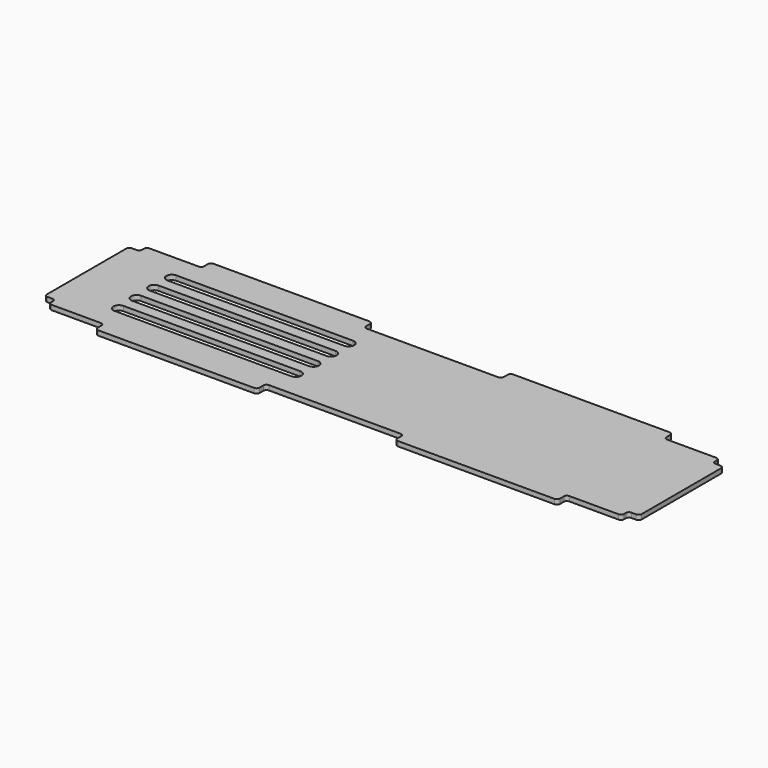
from build123d import *

# Parameters (mm, degrees)
PAD_DEPTH = 1.8542


with BuildPart() as part:
    # Sketch (on Face54 of Binder001) → Pad (new body)
    with BuildSketch(Plane.XY.offset(-14.1418)):
        with BuildLine():
            Line((326.2352, 174.592), (328.0894, 174.592))
            ThreePointArc((329.2894, 173.392), (328.937928, 174.240528), (328.0894, 174.592))
            Line((329.2894, 173.392), (329.2894, 134.7706))
            ThreePointArc((328.0894, 133.5706), (328.937928, 133.922072), (329.2894, 134.7706))
            Line((328.0894, 133.5706), (326.2352, 133.5706))
            ThreePointArc((326.2352, 133.5706), (325.386672, 133.219128), (325.0352, 132.3706))
            Line((325.0352, 131.4813), (325.0352, 132.3706))
            ThreePointArc((323.8352, 130.2813), (324.683728, 130.632772), (325.0352, 131.4813))
            Line((304.7198, 130.2813), (323.8352, 130.2813))
            ThreePointArc((304.7198, 130.2813), (303.871272, 129.929828), (303.5198, 129.0813))
            Line((303.5198, 129.0813), (303.5198, 127.2271))
            ThreePointArc((302.3198, 126.0271), (303.168328, 126.378572), (303.5198, 127.2271))
            Line((241.3778, 126.0271), (302.3198, 126.0271))
            ThreePointArc((240.1778, 127.2271), (240.529272, 126.378572), (241.3778, 126.0271))
            Line((240.1778, 129.0813), (240.1778, 127.2271))
            ThreePointArc((240.1778, 129.0813), (239.826328, 129.929828), (238.9778, 130.2813))
            Line((187.7682, 130.2813), (238.9778, 130.2813))
            ThreePointArc((187.7682, 130.2813), (186.919672, 129.929828), (186.5682, 129.0813))
            Line((186.5682, 129.0813), (186.5682, 127.2271))
            ThreePointArc((185.3682, 126.0271), (186.216728, 126.378572), (186.5682, 127.2271))
            Line((124.6802, 126.0271), (185.3682, 126.0271))
            ThreePointArc((123.4802, 127.2271), (123.831672, 126.378572), (124.6802, 126.0271))
            Line((123.4802, 129.0813), (123.4802, 127.2271))
            ThreePointArc((123.4802, 129.0813), (123.128728, 129.929828), (122.2802, 130.2813))
            Line((122.2802, 130.2813), (103.1648, 130.2813))
            ThreePointArc((101.9648, 131.4813), (102.316272, 130.632772), (103.1648, 130.2813))
            Line((101.9648, 131.4813), (101.9648, 132.3706))
            ThreePointArc((101.9648, 132.3706), (101.613328, 133.219128), (100.7648, 133.5706))
            Line((100.7648, 133.5706), (98.9106, 133.5706))
            ThreePointArc((97.7106, 134.7706), (98.062072, 133.922072), (98.9106, 133.5706))
            Line((97.7106, 134.7706), (97.7106, 173.392))
            ThreePointArc((98.9106, 174.592), (98.062072, 174.240528), (97.7106, 173.392))
            Line((98.9106, 174.592), (100.7648, 174.592))
            ThreePointArc((100.7648, 174.592), (101.613328, 174.943472), (101.9648, 175.792))
            Line((101.9648, 175.792), (101.9648, 176.6813))
            ThreePointArc((103.1648, 177.8813), (102.316272, 177.529828), (101.9648, 176.6813))
            Line((103.1648, 177.8813), (122.2802, 177.8813))
            ThreePointArc((122.2802, 177.8813), (123.128728, 178.232772), (123.4802, 179.0813))
            Line((123.4802, 179.0813), (123.4802, 180.9355))
            ThreePointArc((124.6802, 182.1355), (123.831672, 181.784028), (123.4802, 180.9355))
            Line((124.6802, 182.1355), (185.3682, 182.1355))
            ThreePointArc((186.5682, 180.9355), (186.216728, 181.784028), (185.3682, 182.1355))
            Line((186.5682, 180.9355), (186.5682, 179.0813))
            ThreePointArc((186.5682, 179.0813), (186.919672, 178.232772), (187.7682, 177.8813))
            Line((238.9778, 177.8813), (187.7682, 177.8813))
            ThreePointArc((238.9778, 177.8813), (239.826328, 178.232772), (240.1778, 179.0813))
            Line((240.1778, 179.0813), (240.1778, 180.9355))
            ThreePointArc((241.3778, 182.1355), (240.529272, 181.784028), (240.1778, 180.9355))
            Line((241.3778, 182.1355), (302.3198, 182.1355))
            ThreePointArc((303.5198, 180.9355), (303.168328, 181.784028), (302.3198, 182.1355))
            Line((303.5198, 180.9355), (303.5198, 179.0813))
            ThreePointArc((303.5198, 179.0813), (303.871272, 178.232772), (304.7198, 177.8813))
            Line((304.7198, 177.8813), (323.8352, 177.8813))
            ThreePointArc((325.0352, 176.6813), (324.683728, 177.529828), (323.8352, 177.8813))
            Line((325.0352, 176.6813), (325.0352, 175.792))
            ThreePointArc((325.0352, 175.792), (325.386672, 174.943472), (326.2352, 174.592))
        make_face()
        with BuildLine():
            ThreePointArc((120.6, 143.367014), (118.457143, 141.224157), (120.6, 139.0813))
            Line((120.6, 139.0813), (189.4484, 139.0813))
            ThreePointArc((189.4484, 139.0813), (191.591257, 141.224157), (189.4484, 143.367014))
            Line((120.6, 143.367014), (189.4484, 143.367014))
        make_face(mode=Mode.SUBTRACT)
        with BuildLine():
            ThreePointArc((120.6, 151.938443), (118.457143, 149.795586), (120.6, 147.652729))
            Line((120.6, 147.652729), (189.4484, 147.652729))
            ThreePointArc((189.4484, 147.652729), (191.591257, 149.795586), (189.4484, 151.938443))
            Line((120.6, 151.938443), (189.4484, 151.938443))
        make_face(mode=Mode.SUBTRACT)
        with BuildLine():
            ThreePointArc((120.6, 160.509871), (118.457143, 158.367014), (120.6, 156.224157))
            Line((120.6, 156.224157), (189.4484, 156.224157))
            ThreePointArc((189.4484, 156.224157), (191.591257, 158.367014), (189.4484, 160.509871))
            Line((120.6, 160.509871), (189.4484, 160.509871))
        make_face(mode=Mode.SUBTRACT)
        with BuildLine():
            ThreePointArc((120.6, 169.0813), (118.457143, 166.938443), (120.6, 164.795586))
            Line((120.6, 164.795586), (189.4484, 164.795586))
            ThreePointArc((189.4484, 164.795586), (191.591257, 166.938443), (189.4484, 169.0813))
            Line((120.6, 169.0813), (189.4484, 169.0813))
        make_face(mode=Mode.SUBTRACT)
    extrude(amount=PAD_DEPTH)


solid = part.part
